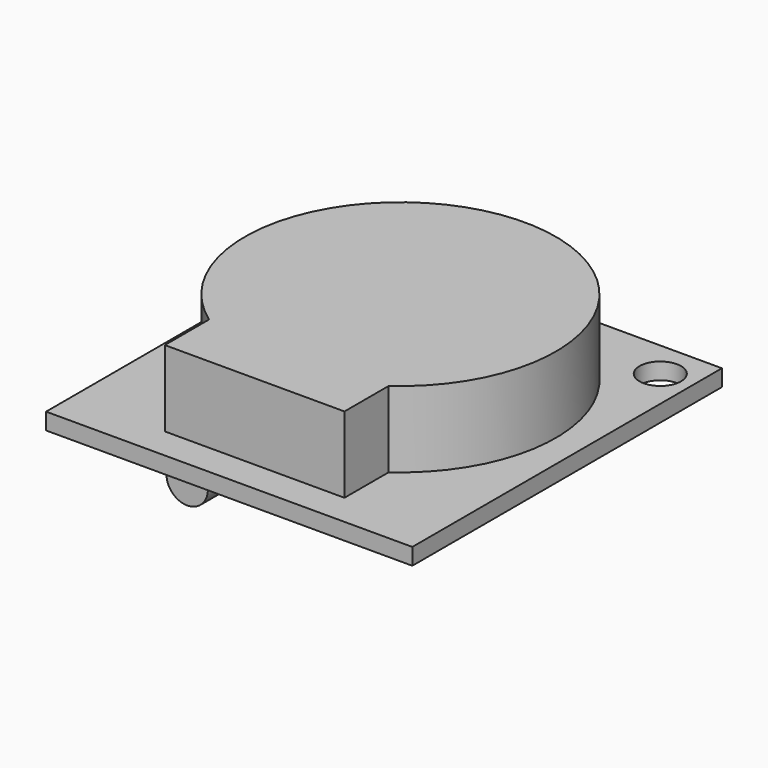
from build123d import *

# Parameters (mm, degrees)
F0_W     = 26.5
F0_H     = 28
F0_R     = 1.5
F1_DEPTH = 1.2
F3_DEPTH = 5.5
F4_R     = 1.5
F5_DEPTH = 9.3


with BuildPart() as f1:
    # F0 (on Top) → F1 (new body)
    with BuildSketch(Plane.XY):
        Rectangle(F0_W, F0_H)
        with Locations((-10.95, 11.3)):
            Circle(F0_R, mode=Mode.SUBTRACT)
        with Locations((10.95, 11.3)):
            Circle(F0_R, mode=Mode.SUBTRACT)
    extrude(amount=F1_DEPTH)

    # F2 (on face) → F3 (join)
    with BuildSketch(Plane.XY.offset(1.2)):
        with BuildLine():
            Line((6.5, -11.7), (6.5, -7.7))
            ThreePointArc((6.5, -7.7), (0, 12.7321838361), (-6.5, -7.7))
            Line((-6.5, -7.7), (-6.5, -11.7))
            Line((-6.5, -11.7), (6.5, -11.7))
        make_face()
    extrude(amount=F3_DEPTH)

    # F4 (on face) → F5 (join)
    with BuildSketch(Plane.XZ.offset(11.7)):
        with Locations((-4.8800413497, -1.49)):
            Circle(F4_R)
    extrude(amount=-F5_DEPTH)


solid = f1.part
